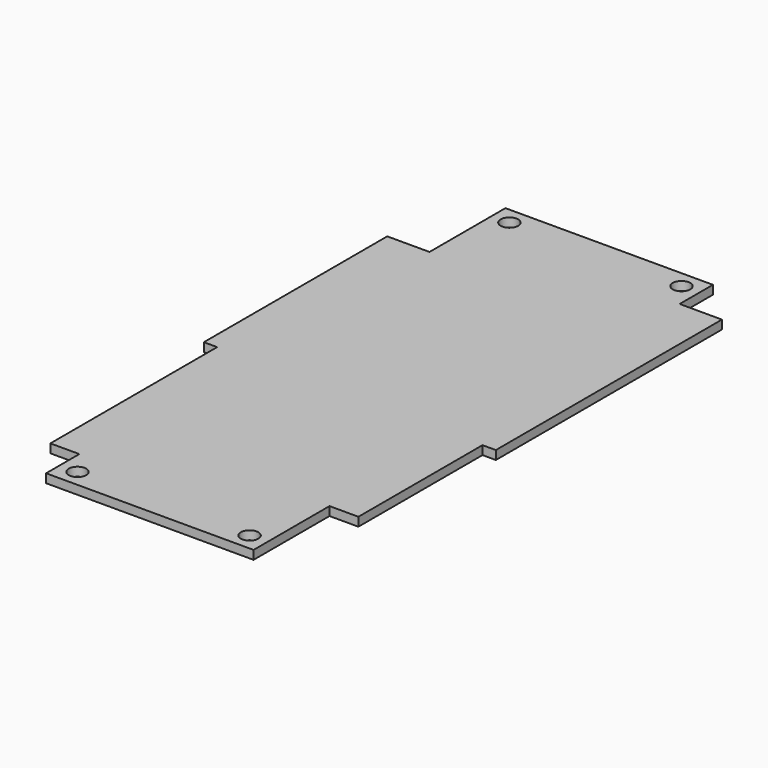
from build123d import *

# Parameters (mm, degrees)
F0_W     = 52.832
F0_H     = 103.886
F1_DEPTH = 0.79375
F2_W     = 7.6454
F2_H     = 17.1704
F2_H_2   = 7.5184
F2_W_2   = 2.405321
F2_H_3   = 37.719
F2_W_3   = 2.413
F2_H_4   = 28.067
F2_R     = 1.5875
F3_DEPTH = 1.6002


with BuildPart() as f1:
    # F0 (on Top) → F1 (new body, symmetric)
    with BuildSketch(Plane.XY):
        Rectangle(F0_W, F0_H)
    extrude(amount=F1_DEPTH, both=True)

    # F2 (on face) → F3 (cut)
    with BuildSketch(Plane.XY.offset(0.79375)):
        with Locations((-22.5933, 43.3578)):
            Rectangle(F2_W, F2_H)
        with Locations((22.5933, 48.1838)):
            Rectangle(F2_W, F2_H_2)
        Polygon((-26.416, -44.4246), (-26.416, -51.943), (-18.7706, -51.943), (-18.7706, -44.4246), (-24.010679, -44.4246), align=None)
        with Locations((-25.21334, -25.5651)):
            Rectangle(F2_W_2, F2_H_3)
        Polygon((18.7706, -51.943), (26.416, -51.943), (26.416, -34.7726), (24.003, -34.7726), (18.7706, -34.7726), align=None)
        with Locations((25.2095, -20.7391)):
            Rectangle(F2_W_3, F2_H_4)
        with Locations((-15.567212, 48.84192)):
            Circle(F2_R)
        with Locations((15.567212, 48.84192)):
            Circle(F2_R)
        with Locations((-15.567212, -48.84192)):
            Circle(F2_R)
        with Locations((15.567212, -48.84192)):
            Circle(F2_R)
    extrude(amount=-F3_DEPTH, mode=Mode.SUBTRACT)


solid = f1.part
